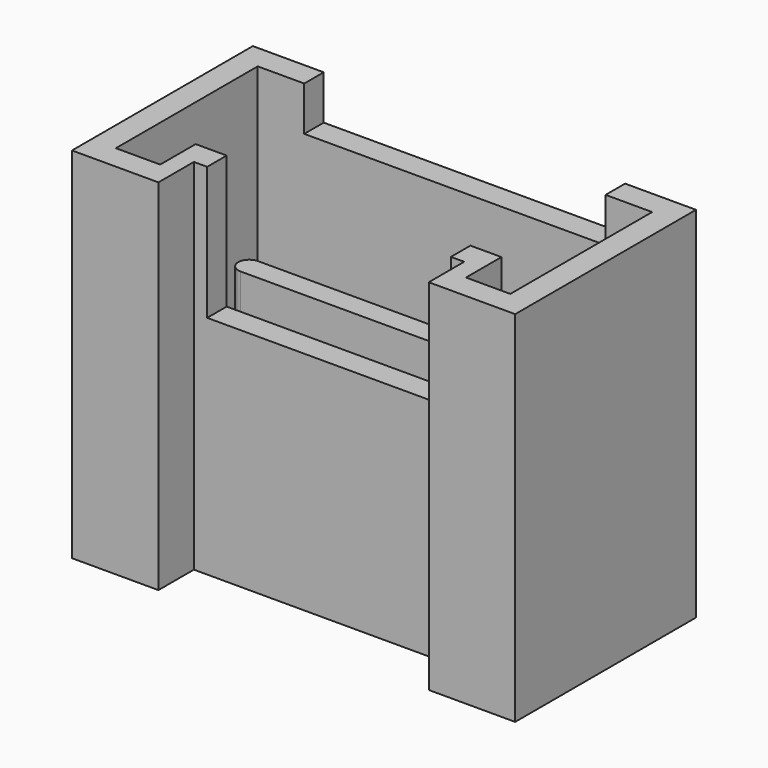
from build123d import *

# Parameters (mm, degrees)
PAD005_DEPTH    = 8.1
POCKET003_DEPTH = 7
SKETCH010_W     = 6.8
SKETCH010_H     = 5
POCKET004_DEPTH = 1
SKETCH011_W     = 5.5
SKETCH011_H     = 3
POCKET005_DEPTH = 3
PAD006_DEPTH    = 4
PAD007_DEPTH    = 0.5


with BuildPart() as part:
    # Sketch008 → Pad005 (new body)
    with BuildSketch(Plane.XY):
        Polygon((-5, 0), (-3.05, 0), (-3.05, 1), (3.05, 1), (3.05, 0), (5, 0), (5, 5.1), (-5, 5.1), align=None)
    extrude(amount=PAD005_DEPTH)

    # Sketch009 (on Face10 of Pad005) → Pocket003 (cut)
    with BuildSketch(Plane.XY.offset(8.1)):
        Polygon((-4.45, 0.55), (-3.45, 0.55), (-3.45, 1.55), (3.45, 1.55), (3.45, 0.55), (4.45, 0.55), (4.45, 4.55), (-4.45, 4.55), align=None)
    extrude(amount=-POCKET003_DEPTH, mode=Mode.SUBTRACT)

    # Sketch010 (on Face5 of Pocket003) → Pocket004 (cut)
    with BuildSketch(Plane.XY.offset(8.1)):
        with Locations((0, 5.5)):
            Rectangle(SKETCH010_W, SKETCH010_H)
    extrude(amount=-POCKET004_DEPTH, mode=Mode.SUBTRACT)

    # Sketch011 (on Face5 of Pocket004) → Pocket005 (cut)
    with BuildSketch(Plane.XY.offset(8.1)):
        with Locations((0, 1.5)):
            Rectangle(SKETCH011_W, SKETCH011_H)
    extrude(amount=-POCKET005_DEPTH, mode=Mode.SUBTRACT)

    # Sketch012 (on Face26 of Pocket005) → Pad006 (join)
    with BuildSketch(Plane.XY.offset(1.1)):
        with BuildLine():
            ThreePointArc((-3.4, 3.25), (-3.65, 3), (-3.4, 2.75))
            Line((-3.4, 2.75), (3.4, 2.75))
            ThreePointArc((3.4, 2.75), (3.65, 3), (3.4, 3.25))
            Line((-3.4, 3.25), (3.4, 3.25))
        make_face()
    extrude(amount=PAD006_DEPTH)

    # Sketch013 → Pad007 (join)
    with BuildSketch(Plane.XY):
        with BuildLine():
            ThreePointArc((-3, 3.75), (-3.75, 3), (-3, 2.25))
            Line((-3, 2.25), (3, 2.25))
            ThreePointArc((3, 2.25), (3.75, 3), (3, 3.75))
            Line((-3, 3.75), (3, 3.75))
        make_face()
    extrude(amount=-PAD007_DEPTH)


with BuildPart() as part_1:
    # Body005 placement: moved
    add(part.part.moved(Location((0.2, 3.4, 1.6))))


solid = part_1.part
